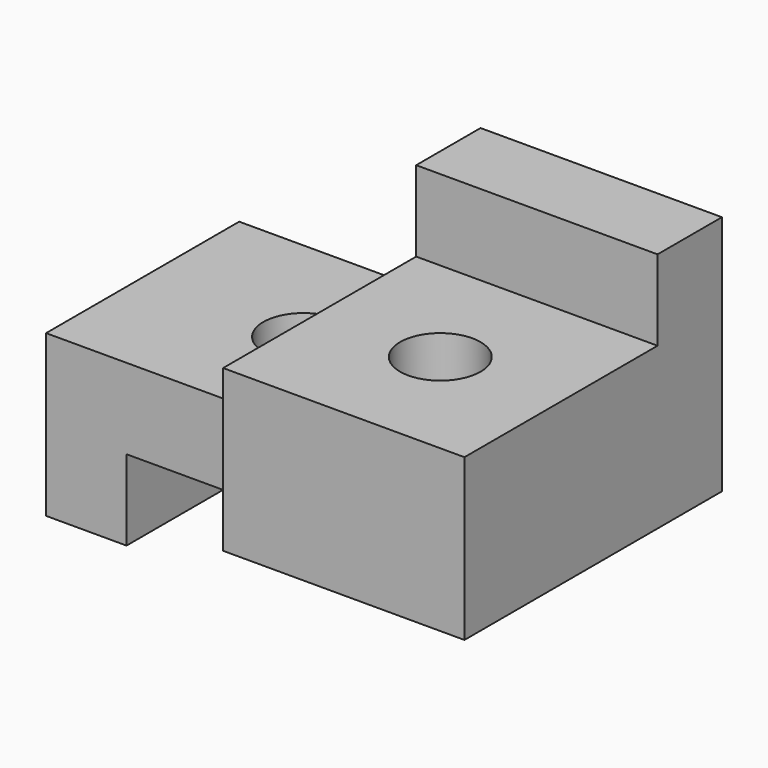
from build123d import *

# Parameters (mm, degrees)
F0_W      = 25.4
F0_H      = 19.05
F1_DEPTH  = 19.05
F2_W      = 19.05
F2_H      = 6.35
F3_DEPTH  = 19.05
F4_W      = 19.05
F4_H      = 6.35
F5_DEPTH  = 19.05
F6_W      = 6.35
F6_H      = 19.05
F7_DEPTH  = 6.35
F8_R      = 3.175
F9_DEPTH  = 25.4
F10_R     = 3.175
F11_DEPTH = 6.35


with BuildPart() as f1:
    # F0 (on Right) → F1 (new body)
    with BuildSketch(Plane.YZ):
        with Locations((12.7, 9.525)):
            Rectangle(F0_W, F0_H)
    extrude(amount=F1_DEPTH)

    # F2 (on face) → F3 (cut)
    with BuildSketch(Plane.YZ.offset(19.05)):
        with Locations((9.525, 15.875)):
            Rectangle(F2_W, F2_H)
    extrude(amount=-F3_DEPTH, mode=Mode.SUBTRACT)

    # F4 (on face) → F5 (join)
    with BuildSketch(Plane(origin=(0, 0, 0), x_dir=(0, -1, 0), z_dir=(-1, 0, 0))):
        with Locations((-15.875, 3.175)):
            Rectangle(F4_W, F4_H)
    extrude(amount=F5_DEPTH)

    # F6 (on face) → F7 (join)
    with BuildSketch(Plane(origin=(0, 0, 0), x_dir=(1, 0, 0), z_dir=(0, 0, -1))):
        with Locations((-15.875, -15.875)):
            Rectangle(F6_W, F6_H)
    extrude(amount=F7_DEPTH)

    # F8 (on face) → F9 (cut)
    with BuildSketch(Plane.XY.offset(12.7)):
        with Locations((9.525, 9.525)):
            Circle(F8_R)
    extrude(amount=-F9_DEPTH, mode=Mode.SUBTRACT)

    # F10 (on face) → F11 (cut)
    with BuildSketch(Plane.XY.offset(6.35)):
        with Locations((-6.35, 15.875)):
            Circle(F10_R)
    extrude(amount=-F11_DEPTH, mode=Mode.SUBTRACT)


solid = f1.part
